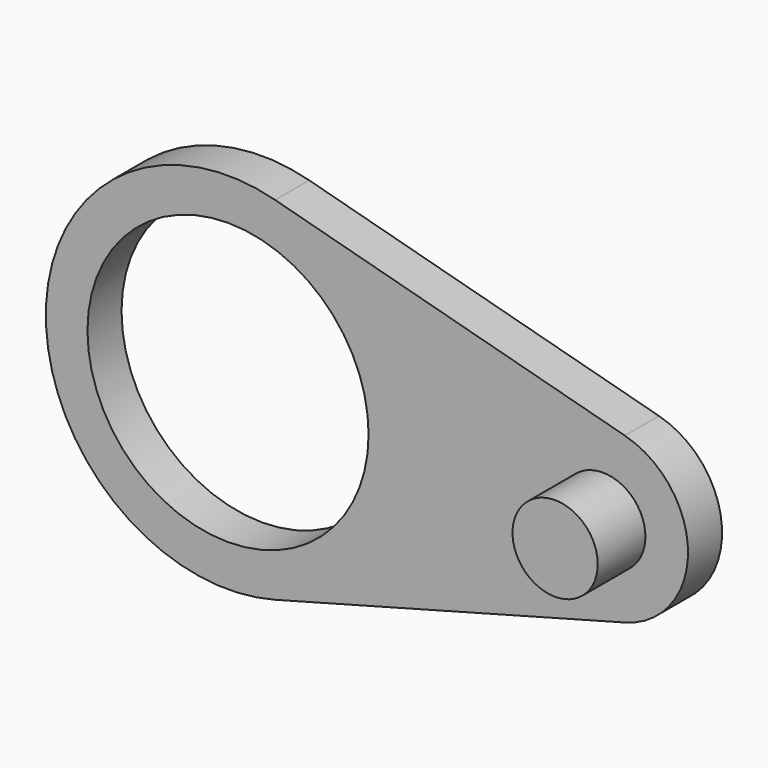
from build123d import *

# Parameters (mm, degrees)
F0_R     = 82.5
F0_R_2   = 25
F1_DEPTH = 25
F2_DEPTH = 35


with BuildPart() as f1:
    # F0 (on Front) → F1 (new body)
    with BuildSketch(Plane.XZ):
        with BuildLine():
            Line((122.940952, 48.296291), (-82.321842, 103.296291))
            ThreePointArc((-82.321842, 103.296291), (-216.94019, 0), (-82.321842, -103.296291))
            Line((-82.321842, -103.296291), (122.940952, -48.296291))
            ThreePointArc((122.940952, -48.296291), (160, 0), (122.940952, 48.296291))
        make_face()
        with Locations((-110, 0)):
            Circle(F0_R, mode=Mode.SUBTRACT)
        with Locations((110, 0)):
            Circle(F0_R_2, mode=Mode.SUBTRACT)
    extrude(amount=-F1_DEPTH)

    # F0 (on Front) → F2 (join, symmetric)
    with BuildSketch(Plane.XZ):
        with Locations((110, 0)):
            Circle(F0_R_2)
    extrude(amount=F2_DEPTH, both=True)


solid = f1.part
